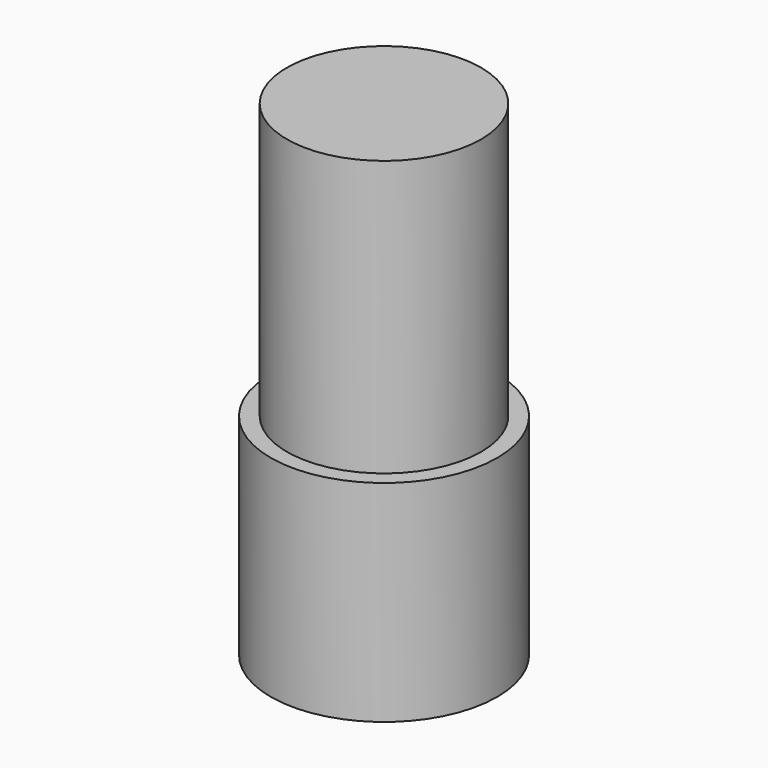
from build123d import *

# Parameters (mm, degrees)
SKETCH_R     = 3.5
PAD_DEPTH    = 6.5
SKETCH001_R  = 3
PAD001_DEPTH = 15


with BuildPart() as part:
    # Sketch → Pad (new body)
    with BuildSketch(Plane.XY):
        Circle(SKETCH_R)
    extrude(amount=PAD_DEPTH)

    # Sketch001 → Pad001 (join)
    with BuildSketch(Plane.XY):
        Circle(SKETCH001_R)
    extrude(amount=PAD001_DEPTH)


solid = part.part
